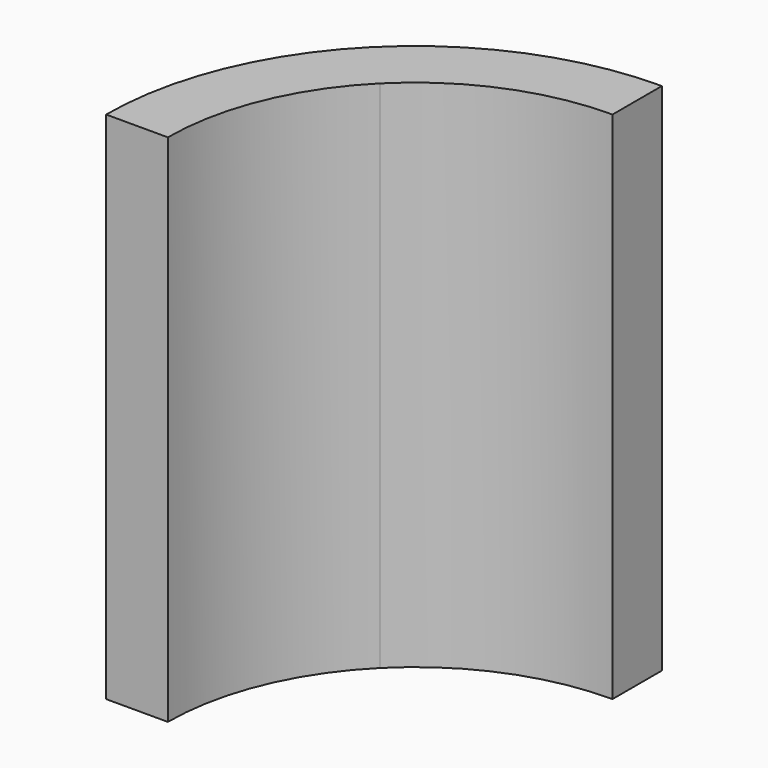
from build123d import *

# Parameters (mm, degrees)
F1_DEPTH = 3
F2_DEPTH = 25


with BuildPart() as f1:
    # F0 (on Top) → F1 (new body)
    with BuildSketch(Plane.XY):
        with BuildLine():
            ThreePointArc((-15, 0), (-13.858193, 5.740251), (-10.606602, 10.606602))
            ThreePointArc((-10.606602, 10.606602), (-5.740251, 13.858193), (0, 15))
            Line((0, 15), (-12.592732, 19.58338))
            ThreePointArc((-12.592732, 19.58338), (-19.091883, 19.091883), (-19.58338, 12.592732))
            Line((-19.58338, 12.592732), (-15, 0))
        make_face()
        with BuildLine():
            ThreePointArc((-14.142136, 14.142136), (-17.404108, 16.321716), (-13.556349, 15.556349))
            ThreePointArc((-13.556349, 15.556349), (-13.70859, 14.790982), (-14.142136, 14.142136))
        make_face(mode=Mode.SUBTRACT)
    extrude(amount=F1_DEPTH)

    # F0 (on Top) → F2 (join)
    with BuildSketch(Plane.XY):
        with BuildLine():
            Line((-8.485281, 8.485281), (-10.606602, 10.606602))
            ThreePointArc((-10.606602, 10.606602), (-13.858193, 5.740251), (-15, 0))
            Line((-15, 0), (-12, 0))
            ThreePointArc((-12, 0), (-11.086554, 4.592201), (-8.485281, 8.485281))
        make_face()
        with BuildLine():
            ThreePointArc((0, 15), (-5.740251, 13.858193), (-10.606602, 10.606602))
            Line((-10.606602, 10.606602), (-8.485281, 8.485281))
            ThreePointArc((-8.485281, 8.485281), (-4.592201, 11.086554), (0, 12))
            Line((0, 12), (0, 15))
        make_face()
    extrude(amount=F2_DEPTH)


solid = f1.part
